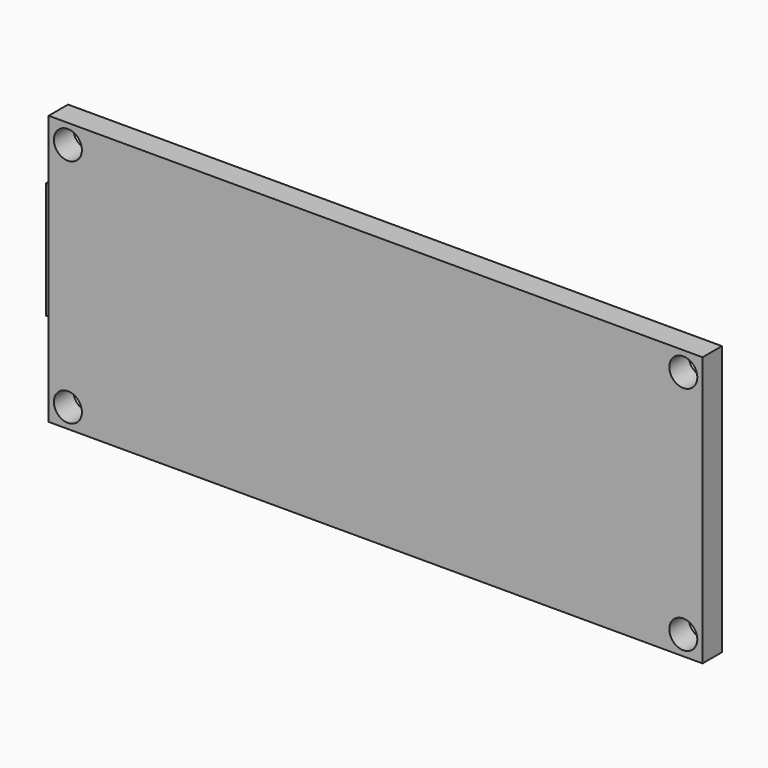
from build123d import *

# Parameters (mm, degrees)
SKETCH003_W     = 43.18
SKETCH003_H     = 17.8
PAD002_DEPTH    = 1.6
SKETCH004_W     = 9.25
SKETCH004_H     = 7.7
PAD003_DEPTH    = 3.9
SKETCH005_R     = 0.925
POCKET001_DEPTH = 5


with BuildPart() as part:
    # Sketch003 → Pad002 (new body)
    with BuildSketch(Plane.XZ):
        with Locations((21.59, 8.9)):
            Rectangle(SKETCH003_W, SKETCH003_H)
    extrude(amount=PAD002_DEPTH)

    # Sketch004 (on Face5 of Pad002) → Pad003 (join)
    with BuildSketch(Plane(origin=(0, 0, 0), x_dir=(1, 0, 0), z_dir=(0, 1, 0))):
        with Locations((3.175, -8.9)):
            Rectangle(SKETCH004_W, SKETCH004_H)
    extrude(amount=PAD003_DEPTH)

    # Sketch005 (on Face4 of Pad003) → Pocket001 (cut)
    with BuildSketch(Plane(origin=(0, 0, 0), x_dir=(1, 0, 0), z_dir=(0, 1, 0))):
        with Locations((1.27, -16.52)):
            Circle(SKETCH005_R)
        with Locations((1.27, -1.28)):
            Circle(SKETCH005_R)
        with Locations((41.91, -1.28)):
            Circle(SKETCH005_R)
        with Locations((41.91, -16.52)):
            Circle(SKETCH005_R)
    extrude(amount=-POCKET001_DEPTH, mode=Mode.SUBTRACT)


with BuildPart() as part_1:
    # Body001 placement: moved
    add(part.part.moved(Location((41.545216, 94.000009, -81.858885))))


solid = part_1.part
